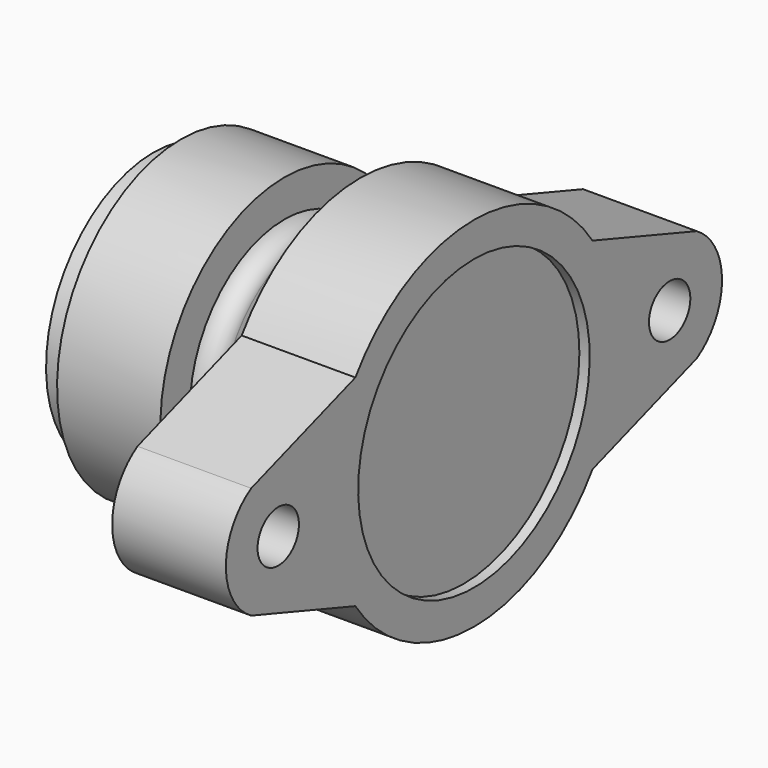
from build123d import *

# Parameters (mm, degrees)
F2_R     = 7.5
F3_DEPTH = 30
F4_DEPTH = 3
F5_R     = 7.5
F6_DEPTH = 33
F7_R     = 7.5
F8_DEPTH = 33


with BuildPart() as f1:
    # F0 (on Front) → F1 (revolve)
    with BuildSketch(Plane.XZ):
        with BuildLine():
            Line((0, 39), (0, 31))
            Line((0, 31), (30, 29))
            Line((30, 29), (30, 23.2778316429))
            Line((30, 23.2778316429), (72, 23.2778316429))
            Line((72, 23.2778316429), (72, 0))
            Line((72, 0), (90, 0))
            Line((90, 0), (90, 42))
            Line((90, 42), (93, 42))
            Line((93, 42), (93, 52))
            Line((93, 52), (60, 52))
            Line((60, 52), (60, 42.5))
            Line((60, 42.5), (45.9028487651, 32.629068438))
            ThreePointArc((45.9028487651, 32.629068438), (45.8614157942, 32.5997709837), (45.8197142818, 32.5708570462))
            ThreePointArc((45.8197142818, 32.5708570462), (41.5456906901, 31.7290536585), (38, 34.2596638885))
            Line((38, 34.2596638885), (38, 45))
            Line((38, 45), (8, 45))
            Line((8, 45), (8, 39))
            Line((8, 39), (0, 39))
        make_face()
    revolve(axis=Axis((81, 0, 0), (-1, 0, 0)))

    # F2 (on face) → F3 (join)
    with BuildSketch(Plane.YZ.offset(90)):
        with BuildLine():
            Line((-19.1190099356, 37.3960353391), (-80.8199036363, 16.2655922909))
            ThreePointArc((-80.8199036363, 16.2655922909), (-90, 0), (-80.8199036363, -16.2655922909))
            Line((-80.8199036363, -16.2655922909), (-19.1190099356, -37.3960353391))
            ThreePointArc((-19.1190099356, -37.3960353391), (-42, 0), (-19.1190099356, 37.3960353391))
        make_face()
        with Locations((-71, 0)):
            Circle(F2_R, mode=Mode.SUBTRACT)
        with BuildLine():
            Line((80.8199036363, 16.2655922909), (19.1190099356, 37.3960353391))
            ThreePointArc((19.1190099356, 37.3960353391), (35.825957191, 21.9203282674), (42, 0))
            ThreePointArc((42, 0), (35.825957191, -21.9203282674), (19.1190099356, -37.3960353391))
            Line((19.1190099356, -37.3960353391), (80.8199036363, -16.2655922909))
            ThreePointArc((80.8199036363, -16.2655922909), (90, 0), (80.8199036363, 16.2655922909))
        make_face()
        with Locations((71, 0)):
            Circle(F2_R, mode=Mode.SUBTRACT)
        with Locations((-71, 0)):
            Circle(F2_R)
        with Locations((71, 0)):
            Circle(F2_R)
    extrude(amount=-F3_DEPTH)

    # F4 (add): faces of the model
    f4_faces = [f1.faces().sort_by_distance(p)[0] for p in [
        (90, 66.461472241, 0),
        (90, -66.461472241, 0),
    ]]
    extrude(f4_faces, amount=F4_DEPTH)

    # F5 (on face) → F6 (cut)
    with BuildSketch(Plane(origin=(60, 0, 0), x_dir=(0, -1, 0), z_dir=(-1, 0, 0))):
        with Locations((-71, 0)):
            Circle(F5_R)
    extrude(amount=-F6_DEPTH, mode=Mode.SUBTRACT)

    # F7 (on face) → F8 (cut)
    with BuildSketch(Plane(origin=(60, 0, 0), x_dir=(0, -1, 0), z_dir=(-1, 0, 0))):
        with Locations((71, 0)):
            Circle(F7_R)
    extrude(amount=-F8_DEPTH, mode=Mode.SUBTRACT)


solid = f1.part
